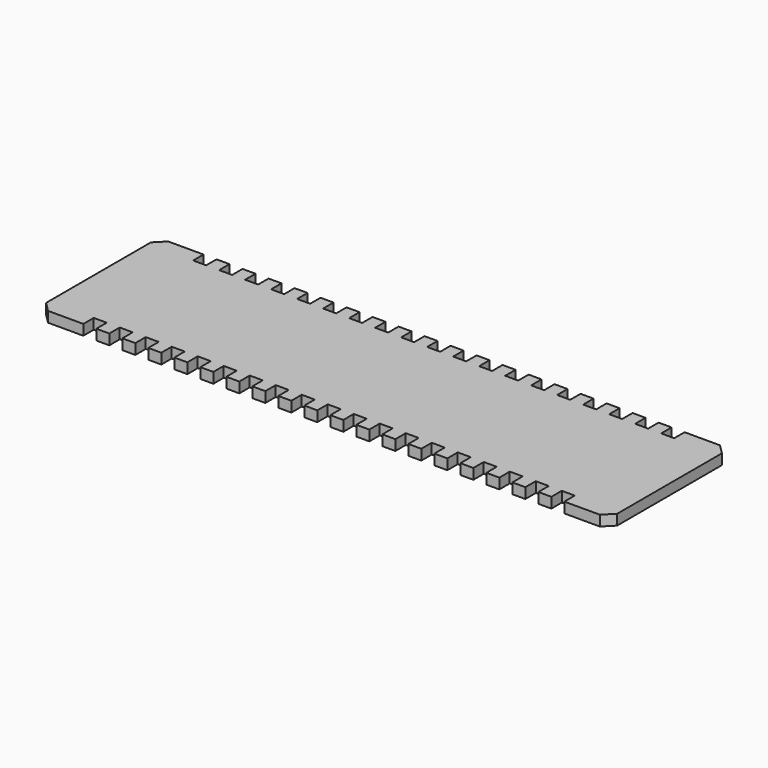
from build123d import *

# Parameters (mm, degrees)
PAD_DEPTH       = 1.02
SKETCH001_W     = 1.27
SKETCH001_H     = 1.07
POCKET_DEPTH    = 1.27
SKETCH002_W     = 1.27
SKETCH002_H     = 1.07
POCKET001_DEPTH = 1.27


with BuildPart() as part:
    # Sketch → Pad (new body)
    with BuildSketch(Plane.XY.offset(0.28)):
        Polygon((0, 0.94), (0.94, 0), (54.84, 0), (55.78, 0.94), (55.78, 13.74), (54.84, 14.68), (0.94, 14.68), (0, 13.74), align=None)
    extrude(amount=PAD_DEPTH)

    # Sketch001 → Pocket (cut)
    with BuildSketch(Plane(origin=(0, 0, 0.28), x_dir=(1, 0, 0), z_dir=(0, -1, 0))):
        with Locations((5.025, 0.535)):
            Rectangle(SKETCH001_W, SKETCH001_H)
        with Locations((7.565, 0.535)):
            Rectangle(SKETCH001_W, SKETCH001_H)
        with Locations((10.105, 0.535)):
            Rectangle(SKETCH001_W, SKETCH001_H)
        with Locations((12.644979, 0.52763)):
            Rectangle(SKETCH001_W, SKETCH001_H)
        with Locations((15.184957, 0.535)):
            Rectangle(SKETCH001_W, SKETCH001_H)
        with Locations((17.724957, 0.535)):
            Rectangle(SKETCH001_W, SKETCH001_H)
        with Locations((20.264957, 0.535)):
            Rectangle(SKETCH001_W, SKETCH001_H)
        with Locations((22.804957, 0.535)):
            Rectangle(SKETCH001_W, SKETCH001_H)
        with Locations((25.344957, 0.535)):
            Rectangle(SKETCH001_W, SKETCH001_H)
        with Locations((27.884957, 0.535)):
            Rectangle(SKETCH001_W, SKETCH001_H)
        with Locations((30.424957, 0.535)):
            Rectangle(SKETCH001_W, SKETCH001_H)
        with Locations((32.964957, 0.535)):
            Rectangle(SKETCH001_W, SKETCH001_H)
        with Locations((35.504957, 0.535)):
            Rectangle(SKETCH001_W, SKETCH001_H)
        with Locations((38.044957, 0.535)):
            Rectangle(SKETCH001_W, SKETCH001_H)
        with Locations((40.584957, 0.535)):
            Rectangle(SKETCH001_W, SKETCH001_H)
        with Locations((43.124957, 0.535)):
            Rectangle(SKETCH001_W, SKETCH001_H)
        with Locations((45.664957, 0.535)):
            Rectangle(SKETCH001_W, SKETCH001_H)
        with Locations((48.204957, 0.535)):
            Rectangle(SKETCH001_W, SKETCH001_H)
        with Locations((50.744957, 0.535)):
            Rectangle(SKETCH001_W, SKETCH001_H)
    extrude(amount=-POCKET_DEPTH, mode=Mode.SUBTRACT)

    # Sketch002 → Pocket001 (cut)
    with BuildSketch(Plane(origin=(0, 14.68, 0.28), x_dir=(-1, 0, 0), z_dir=(0, 1, 0))):
        with Locations((-45.665, 0.535)):
            Rectangle(SKETCH002_W, SKETCH002_H)
        with Locations((-43.125, 0.535)):
            Rectangle(SKETCH002_W, SKETCH002_H)
        with Locations((-40.585, 0.535)):
            Rectangle(SKETCH002_W, SKETCH002_H)
        with Locations((-40.585, 0.535)):
            Rectangle(SKETCH002_W, SKETCH002_H)
        with Locations((-40.585, 0.535)):
            Rectangle(SKETCH002_W, SKETCH002_H)
        with Locations((-38.045, 0.535)):
            Rectangle(SKETCH002_W, SKETCH002_H)
        with Locations((-35.505, 0.535)):
            Rectangle(SKETCH002_W, SKETCH002_H)
        with Locations((-32.965, 0.535)):
            Rectangle(SKETCH002_W, SKETCH002_H)
        with Locations((-30.425, 0.535)):
            Rectangle(SKETCH002_W, SKETCH002_H)
        with Locations((-27.885, 0.535)):
            Rectangle(SKETCH002_W, SKETCH002_H)
        with Locations((-25.345, 0.535)):
            Rectangle(SKETCH002_W, SKETCH002_H)
        with Locations((-22.805, 0.535)):
            Rectangle(SKETCH002_W, SKETCH002_H)
        with Locations((-20.265, 0.535)):
            Rectangle(SKETCH002_W, SKETCH002_H)
        with Locations((-17.725, 0.535)):
            Rectangle(SKETCH002_W, SKETCH002_H)
        with Locations((-15.185, 0.535)):
            Rectangle(SKETCH002_W, SKETCH002_H)
        with Locations((-12.645, 0.535)):
            Rectangle(SKETCH002_W, SKETCH002_H)
        with Locations((-10.105, 0.535)):
            Rectangle(SKETCH002_W, SKETCH002_H)
        with Locations((-7.565, 0.535)):
            Rectangle(SKETCH002_W, SKETCH002_H)
        with Locations((-5.025, 0.535)):
            Rectangle(SKETCH002_W, SKETCH002_H)
        with Locations((-48.205, 0.535)):
            Rectangle(SKETCH002_W, SKETCH002_H)
        with Locations((-50.745, 0.535)):
            Rectangle(SKETCH002_W, SKETCH002_H)
    extrude(amount=-POCKET001_DEPTH, mode=Mode.SUBTRACT)


solid = part.part
